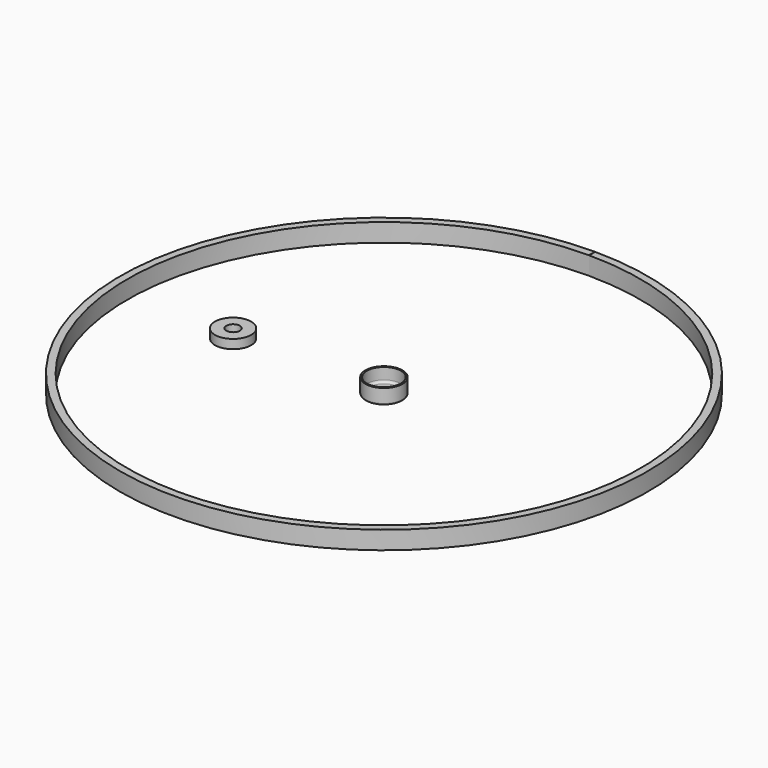
from build123d import *

# Parameters (mm, degrees)
PAD_DEPTH     = 6
SKETCH001_R   = 6
SKETCH001_R_2 = 2.25
PAD001_DEPTH  = 3


with BuildPart() as body:
    # Sketch → Pad (new body)
    with BuildSketch(Plane.XY):
        with BuildLine():
            ThreePointArc((-0.05, 84.999985), (0, -85), (0.05, 84.999985))
            Line((0.05, 87.499985), (0.05, 84.999985))
            ThreePointArc((-0.05, 87.499985), (0, -87.5), (0.05, 87.499985))
            Line((-0.05, 87.499985), (-0.05, 84.999985))
        make_face()
    extrude(amount=PAD_DEPTH)


with BuildPart() as f_12x4_5x3_5_washer:
    # Sketch001 → Pad001 (new body)
    with BuildSketch(Plane.XY):
        Circle(SKETCH001_R)
        Circle(SKETCH001_R_2, mode=Mode.SUBTRACT)
    extrude(amount=PAD001_DEPTH)


with BuildPart() as f_12x4_5x3_5_washer_1:
    # Body001 placement: moved
    add(f_12x4_5x3_5_washer.part.moved(Location((-50, 0, 0))))


with BuildPart() as f_12mm_cap:
    # Sketch002 → Revolution (revolve)
    with BuildSketch(Plane.XZ):
        with BuildLine():
            Line((6.15, 5), (6.15, 0.5))
            ThreePointArc((5.65, 0), (6.003553, 0.146447), (6.15, 0.5))
            Line((5.65, 0), (0, 0))
            Line((0, 0), (0, 0.5))
            Line((4.9, 0.5), (0, 0.5))
            ThreePointArc((4.9, 0.5), (5.43033, 0.71967), (5.65, 1.25))
            Line((5.65, 5), (5.65, 1.25))
            Line((5.65, 5), (6.15, 5))
        make_face()
    revolve(axis=Axis((0, 0, 0), (0, 0, 1)))


solid = Compound([body.part, f_12x4_5x3_5_washer_1.part, f_12mm_cap.part])
